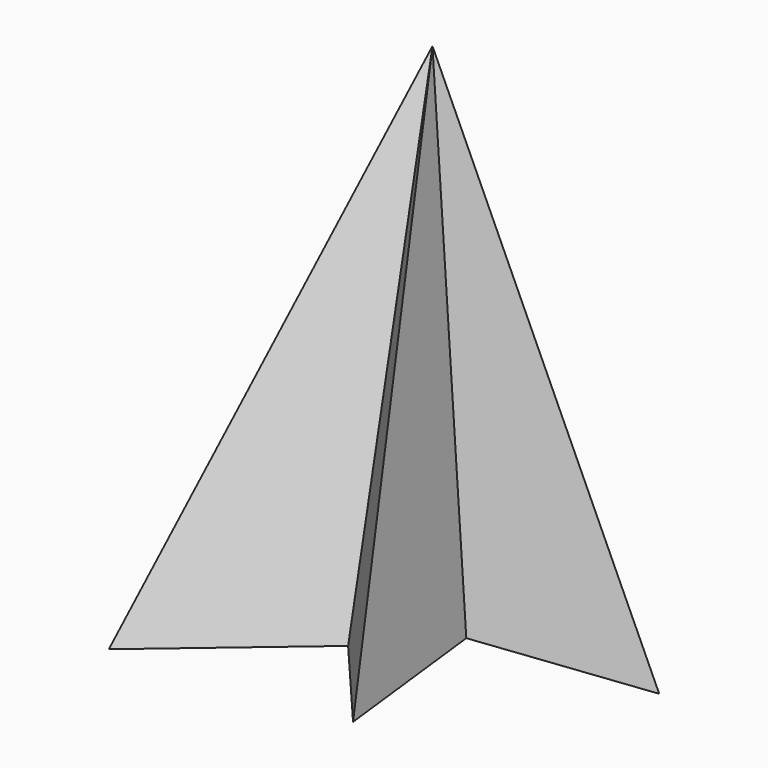
from build123d import *


with BuildPart() as f3:
    # F0 (on Top) → F3 section 0
    with BuildSketch(Plane.XY, mode=Mode.PRIVATE) as f3_s0:
        Polygon((24.385246, 12.192623), (0, 44.897541), (-15.204919, 7.028689), (-51.065575, 7.028689), (-7.172131, -15.922133), (-26.393443, -48.913937), (4.30328, -22.807376), (22.260306, -43.921681), (18.073771, -8.17623), (56.093104, -3.723376), align=None)
    loft([Vertex(0, 5.307377, 101), f3_s0.sketch])


solid = f3.part
